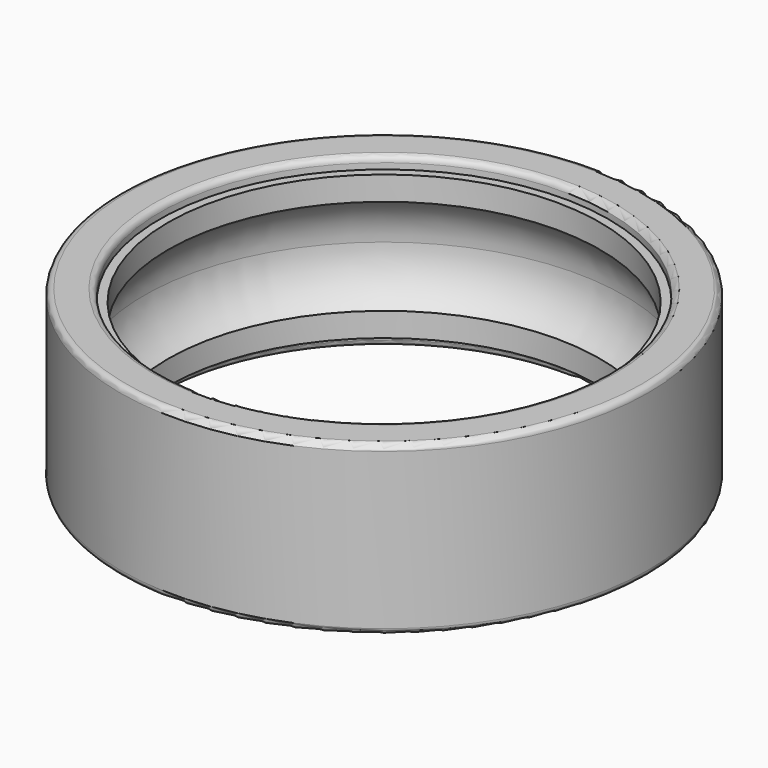
from build123d import *


with BuildPart() as f1:
    # F0 (on Front) → F1 (revolve)
    with BuildSketch(Plane.XZ):
        with BuildLine():
            ThreePointArc((9, 2), (9.736068, 1.118034), (10, 0))
            Line((10, 0), (11, 0))
            Line((11, 0), (11, 3.25))
            ThreePointArc((11, 3.25), (10.926777, 3.426777), (10.75, 3.5))
            Line((10.75, 3.5), (9.606548, 3.5))
            ThreePointArc((9.606548, 3.5), (9.429771, 3.426777), (9.356548, 3.25))
            Line((9.356548, 3.25), (9.356548, 3))
            Line((9.356548, 3), (9, 3))
            Line((9, 3), (9, 2))
        make_face()
        with BuildLine():
            Line((11, 0), (10, 0))
            ThreePointArc((10, 0), (9.736068, -1.118034), (9, -2))
            Line((9, -2), (9, -3))
            Line((9, -3), (9.356548, -3))
            Line((9.356548, -3), (9.356548, -3.25))
            ThreePointArc((9.356548, -3.25), (9.429771, -3.426777), (9.606548, -3.5))
            Line((9.606548, -3.5), (10.75, -3.5))
            ThreePointArc((10.75, -3.5), (10.926777, -3.426777), (11, -3.25))
            Line((11, -3.25), (11, 0))
        make_face()
    revolve(axis=Axis((0, 0, -0.050428), (0, 0, -1)))


solid = f1.part
